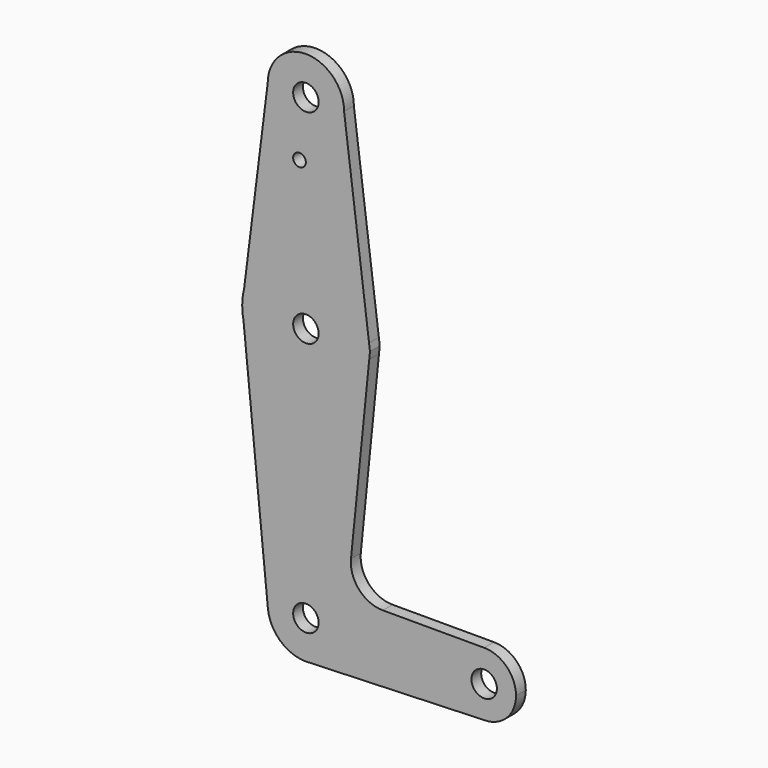
from build123d import *

# Parameters (mm, degrees)
F0_R     = 3.175
F0_R_2   = 1.5875
F1_DEPTH = 3.048


with BuildPart() as f1:
    # F0 (on Front) → F1 (new body)
    with BuildSketch(Plane.XZ):
        with BuildLine():
            ThreePointArc((0.6794904459, -9.5007324841), (6.9712901065, -6.4905114784), (9.525, 0))
            ThreePointArc((9.525, 0), (-0.4710035211, 9.5133475014), (-9.4784185161, -0.940854629))
            ThreePointArc((-9.4784185161, -0.940854629), (-6.3939027463, -7.0600023138), (0, -9.525))
            Line((0, -9.525), (0.6794904459, -9.5007324841))
        make_face()
        Circle(F0_R, mode=Mode.SUBTRACT)
        with BuildLine():
            ThreePointArc((-9.4784185161, -0.940854629), (-0.4710035211, 9.5133475014), (9.525, 0))
            ThreePointArc((9.525, 0), (6.9712901065, -6.4905114784), (0.6794904459, -9.5007324841))
            Line((0.6794904459, -9.5007324841), (44.45, -7.9375))
            ThreePointArc((44.45, -7.9375), (36.5125, 0), (44.45, 7.9375))
            Line((44.45, 7.9375), (19.160010759, 7.9375))
            ThreePointArc((19.160010759, 7.9375), (13.2639846378, 10.5545437096), (11.2496616365, 16.68272))
            Line((11.2496616365, 16.68272), (15.795425534, 61.9124997009))
            ThreePointArc((15.795425534, 61.9124997009), (0.7752647366, 47.6439415494), (-15.5652161214, 60.3791552277))
            Line((-15.5652161214, 60.3791552277), (-9.4784185161, -0.940854629))
        make_face()
        with BuildLine():
            ThreePointArc((0, -9.525), (0.3399618281, -9.5189311877), (0.6794904459, -9.5007324841))
            Line((0.6794904459, -9.5007324841), (0, -9.525))
        make_face()
        with BuildLine():
            Line((-15.875, 63.5), (-15.5652161214, 60.3791552277))
            ThreePointArc((-15.5652161214, 60.3791552277), (0.7752647366, 47.6439415494), (15.795425534, 61.9124997009))
            ThreePointArc((15.795425534, 61.9124997009), (15.8550939031, 62.7052532958), (15.875, 63.5))
            ThreePointArc((15.875, 63.5), (15.8430821431, 64.5061675834), (15.7474569189, 65.5082892188))
            ThreePointArc((15.7474569189, 65.5082892188), (0.9666946554, 79.3455396388), (-15.3865384615, 67.4076923077))
            Line((-15.3865384615, 67.4076923077), (-15.875, 63.5))
        make_face()
        with Locations((0, 63.5)):
            Circle(F0_R, mode=Mode.SUBTRACT)
        with BuildLine():
            ThreePointArc((-15.875, 63.5), (-15.7973641936, 61.9319089516), (-15.5652161214, 60.3791552277))
            Line((-15.5652161214, 60.3791552277), (-15.875, 63.5))
        make_face()
        with BuildLine():
            ThreePointArc((44.45, 7.9375), (36.5125, 0), (44.45, -7.9375))
            ThreePointArc((44.45, -7.9375), (50.0626600757, -5.6126600757), (52.3875, 0))
            ThreePointArc((52.3875, 0), (50.0626600757, 5.6126600757), (44.45, 7.9375))
        make_face()
        with Locations((44.45, 0)):
            Circle(F0_R, mode=Mode.SUBTRACT)
        with BuildLine():
            ThreePointArc((-15.3865384615, 67.4076923077), (-15.7524112928, 65.4690514116), (-15.875, 63.5))
            Line((-15.875, 63.5), (-15.3865384615, 67.4076923077))
        make_face()
        with BuildLine():
            ThreePointArc((15.875, 63.5), (15.8550939031, 62.7052532958), (15.795425534, 61.9124997009))
            Line((15.795425534, 61.9124997009), (15.9763955679, 63.7131288033))
            Line((15.9763955679, 63.7131288033), (15.7474569189, 65.5082892188))
            ThreePointArc((15.7474569189, 65.5082892188), (15.8430821431, 64.5061675834), (15.875, 63.5))
        make_face()
        with BuildLine():
            Line((-9.525, 114.3), (-15.3865384615, 67.4076923077))
            ThreePointArc((-15.3865384615, 67.4076923077), (0.9666946554, 79.3455396388), (15.7474569189, 65.5082892188))
            Line((15.7474569189, 65.5082892188), (9.525, 114.3))
            ThreePointArc((9.525, 114.3), (0, 104.775), (-9.525, 114.3))
        make_face()
        with Locations((-1.5875, 100.0252)):
            Circle(F0_R_2, mode=Mode.SUBTRACT)
        with BuildLine():
            ThreePointArc((9.525, 114.3), (0, 123.825), (-9.525, 114.3))
            ThreePointArc((-9.525, 114.3), (0, 104.775), (9.525, 114.3))
        make_face()
        with Locations((0, 114.3)):
            Circle(F0_R, mode=Mode.SUBTRACT)
    extrude(amount=F1_DEPTH)


solid = f1.part
